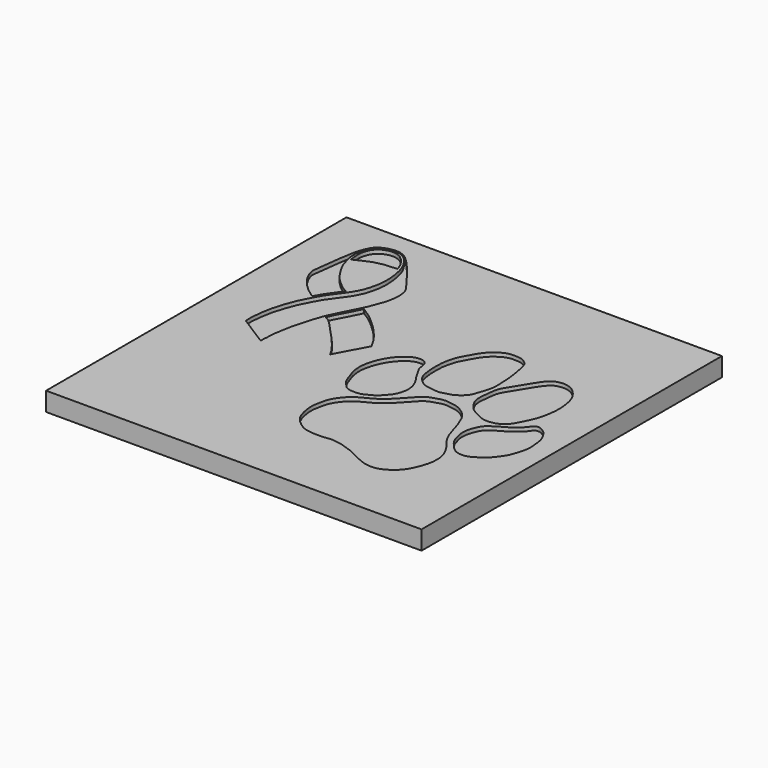
from build123d import *

# Parameters (mm, degrees)
F0_W     = 100
F0_H     = 100
F1_DEPTH = 5
F3_DEPTH = 1


with BuildPart() as f1:
    # F0 (on Top) → F1 (new body)
    with BuildSketch(Plane.XY):
        with Locations((-50, 50)):
            Rectangle(F0_W, F0_H)
    extrude(amount=F1_DEPTH)

    # F2 (on face) → F3 (cut)
    with BuildSketch(Plane.XY.offset(5)):
        with BuildLine():
            add(Edge.make_bspline(
                [(-64.0848875046, 49.6399775147), (-64.288202746, 50.0424058189), (-64.8090171446, 51.0727961272), (-67.1147871022, 54.1143364392), (-68.83718979, 56.0302063519), (-71.4616832735, 58.7464305372), (-72.6374264636, 60.2284947741), (-74.3689062362, 61.793973396), (-75.0556511216, 61.9965024044), (-75.2299129963, 62.1507614851)],
                knots=[0, 0, 0, 0, 0.1176836784, 0.2990488546, 0.4575531804, 0.636509527, 0.7713019313, 0.9120241927, 1, 1, 1, 1], degree=3))
            Line((-64.0848875046, 49.6399775147), (-59.6594251692, 57.8951723874))
            add(Edge.make_bspline(
                [(-59.6594251692, 57.8951723874), (-59.9626252199, 58.4657102763), (-60.5846521096, 59.6361913094), (-61.746220474, 61.4256740971), (-63.5726104746, 63.5311996747), (-65.1404835196, 65.2247917432), (-66.8969871058, 66.7402793734), (-68.4502400804, 68.1310458053), (-70.1136426095, 69.1990803312), (-70.9383979473, 69.7501798667), (-71.3183134794, 70.0040385127)],
                knots=[0, 0, 0, 0, 0.1199354675, 0.2460523527, 0.3894946815, 0.52134581, 0.6515644447, 0.7766793728, 0.8971295231, 1, 1, 1, 1], degree=3))
            add(Edge.make_bspline(
                [(-71.3183134794, 70.0040385127), (-71.4417016648, 69.7637669306), (-71.6963890239, 69.2678330685), (-72.0277679137, 68.493091419), (-72.6816687804, 67.2414086826), (-73.166343541, 66.3490114968), (-73.8320958845, 65.2286076489), (-74.2540779321, 64.3336739997), (-74.6416181853, 63.5701660273), (-74.9001398131, 62.8797298965), (-75.193946081, 62.3813359461), (-75.2299129963, 62.1507614851)],
                knots=[0, 0, 0, 0, 0.1016660796, 0.2066919806, 0.3398995931, 0.4565995666, 0.5846153322, 0.6982813709, 0.8016345081, 0.8999238885, 1, 1, 1, 1], degree=3))
        make_face()
        with BuildLine():
            add(Edge.make_bspline(
                [(-79.3000087142, 73.9591345191), (-79.5569602927, 74.0752122819), (-80.1629961698, 74.3489887232), (-81.5221057495, 75.3223688014), (-83.109994045, 76.6990341608), (-84.1613529467, 77.8855549616), (-85.0041285952, 78.9772772755), (-85.9471704352, 80.4919301114), (-87.1253716291, 82.5479201925), (-87.6404903777, 84.2971753356), (-88.2362387906, 86.3489722475), (-88.2697813701, 87.949675058), (-88.225194771, 89.6157102584), (-87.787677789, 91.0012098055), (-87.1425093313, 92.4294133108), (-86.2329252222, 93.1339702933), (-85.5549101754, 93.6803279952), (-84.460908514, 94.1398729739), (-83.5045294489, 94.3194142748), (-82.4291291484, 94.4028116464), (-81.2084023421, 94.1766828148), (-80.1330434124, 93.8064412186), (-79.1116800303, 93.0065916279), (-78.3176740513, 92.0920357947), (-77.5601125662, 90.9588449907), (-76.8681365483, 89.7626525674), (-76.3930390017, 88.2363522735), (-76.0520393382, 86.6801024831), (-75.8424896667, 85.4017955277), (-75.752418055, 84.2256725194), (-75.6761292573, 82.7969066708), (-75.7862696349, 81.2862724293), (-76.0467764292, 79.6740405539), (-76.4744864431, 78.1253759655), (-76.7753117689, 77.039119656), (-77.5863134586, 75.4311064717), (-78.2717975183, 74.2320626225), (-79.1017534493, 73.1133387174), (-80.1380318567, 71.7405900981), (-81.2061550767, 70.2982093029), (-82.329440217, 68.5386808876), (-83.2498451063, 66.690293716), (-84.1414520258, 65.046371669), (-85.0089616164, 63.0622697017), (-85.6354797313, 61.1979355287), (-86.2140621121, 59.407762268), (-86.6763447857, 57.6044271625), (-87.0161624371, 55.5170862658), (-87.2190889792, 53.8245118779), (-87.3183473626, 52.1954852453), (-87.2838721843, 51.038841895), (-87.2750657184, 50.6962650296), (-87.2716754675, 50.5643822253)],
                knots=[0, 0, 0, 0, 0.0154947193, 0.036544702, 0.0604335553, 0.0808786256, 0.0997022544, 0.1215333025, 0.1465229326, 0.1688070761, 0.1923308828, 0.2130749594, 0.2338190329, 0.2535884867, 0.2737921862, 0.2909487758, 0.3061443863, 0.3236555156, 0.3397983427, 0.3565961218, 0.3746668409, 0.3920336221, 0.4103510718, 0.4283295095, 0.4472336836, 0.4663733458, 0.486974691, 0.507627314, 0.5260609001, 0.5436635576, 0.5630551267, 0.5831431286, 0.6041350197, 0.6245475931, 0.6419940497, 0.6636340878, 0.6829448571, 0.7019981452, 0.7232836973, 0.745205049, 0.7687599323, 0.7921335708, 0.8144542512, 0.8383496947, 0.861291876, 0.8834818262, 0.905798487, 0.9294254254, 0.9508606132, 0.9718348438, 0.9891570223, 1, 1, 1, 1], degree=3))
            Line((-87.2716754675, 50.5643822253), (-79.2333781719, 45.4526506364))
            add(Edge.make_bspline(
                [(-83.4074392915, 67.7855536342), (-83.772210526, 68.0321576044), (-84.5858016188, 68.582186704), (-86.1992051033, 69.8510615449), (-88.0172171197, 71.725801015), (-89.0034724637, 73.0891837587), (-89.9496122499, 74.7252530669), (-90.4479236277, 76.341832556), (-90.4928043612, 77.1256819752), (-90.2804940876, 78.3446675993), (-90.1131734653, 80.1168864708), (-89.7902443549, 82.4715663085), (-89.4277441438, 85.4457026403), (-88.9600713882, 88.0946213626), (-88.5548063801, 89.907880867), (-87.6827062502, 91.9902774807), (-86.726892304, 93.3585650261), (-84.9905869606, 94.2483502151), (-83.4361280197, 94.6254807585), (-81.8622271012, 94.7234778718), (-80.5249394563, 94.3166485947), (-79.5024293027, 93.7671106122), (-78.4414982841, 92.8034856197), (-77.4679225511, 91.8292332306), (-76.1514253999, 90.3825935421), (-74.2899793995, 88.0351100772), (-73.0447565169, 86.3944061763), (-71.630161025, 84.5166038723), (-70.8129239726, 83.3851519707), (-69.8978925716, 82.2131213798), (-69.5894248875, 81.2118230465), (-69.2707937072, 79.7091282725), (-69.389777065, 77.3772164513), (-69.9598891937, 74.9886497861), (-70.8649468368, 72.6412558985), (-71.699118028, 70.5190056406), (-72.6703292264, 68.7649125338), (-73.9092692487, 66.2887895743), (-75.2028866364, 63.7726232295), (-76.0680853363, 61.7777959446), (-76.9235502292, 59.078710455), (-77.5659343809, 56.7585984497), (-78.3359959457, 53.9717859741), (-78.7340613705, 51.1817349437), (-79.1712528289, 48.8038057992), (-79.0501843071, 47.5807893748), (-79.2150447841, 46.7538159327), (-79.2331111028, 45.920348924), (-79.2333781719, 45.4526506364)],
                knots=[0, 0, 0, 0, 0.0184800608, 0.0412188476, 0.0666579701, 0.0871851189, 0.1089031086, 0.1291138984, 0.142844268, 0.159899257, 0.180917552, 0.2052933344, 0.2328447561, 0.2585700918, 0.2801419725, 0.3034879957, 0.3237698461, 0.345305411, 0.36535746, 0.3849658217, 0.4033413207, 0.4202599605, 0.4388838051, 0.4572403043, 0.4793407646, 0.5065493041, 0.52971722, 0.5534725431, 0.5724109454, 0.5911553708, 0.6070903582, 0.6263006689, 0.6503298185, 0.6751802125, 0.7002155083, 0.7238078609, 0.7460239843, 0.7722886498, 0.7987655531, 0.8221115762, 0.8483043406, 0.8729626865, 0.8995763303, 0.9264537879, 0.9508359706, 0.9678121121, 0.981980517, 1, 1, 1, 1], degree=3))
            add(Edge.make_bspline(
                [(-79.3000087142, 73.9591345191), (-79.4821359105, 73.6903847325), (-79.7844895396, 73.2442269104), (-80.029452156, 72.9394006154), (-80.4064539267, 72.4541582032), (-80.9583613619, 71.5823597499), (-81.7344236254, 70.5701694468), (-82.4071596577, 69.4860191443), (-82.8395479621, 68.7461301436), (-83.1421174311, 68.2772342597), (-83.3188268365, 67.9497656113), (-83.4074392915, 67.7855536342)],
                knots=[0, 0, 0, 0, 0.1165765226, 0.1935314185, 0.2885408387, 0.4155186801, 0.5584915839, 0.7003817762, 0.8150704372, 0.9072654763, 1, 1, 1, 1], degree=3))
        make_face()
        with BuildLine():
            add(Edge.make_bspline(
                [(-87.4013081193, 85.7417210937), (-87.4405006375, 85.9991028846), (-87.5294075145, 86.5829646087), (-87.6685664464, 87.9174548238), (-87.6322172787, 89.4858663001), (-87.1803671874, 90.9678648157), (-86.6285487283, 91.9604431152), (-85.9684076935, 92.6218369612), (-85.2411557354, 93.2063288983), (-84.2307891653, 93.5601324349), (-83.2428838782, 93.8399335752), (-82.0115897613, 93.7824928162), (-81.1275206874, 93.5301016862), (-80.3513295298, 93.1926999975), (-79.7514382188, 92.638620539), (-79.0569031004, 92.0509354806), (-78.4619171388, 91.2002426487), (-77.9450051312, 90.456876487), (-77.5576497624, 89.6144501794), (-77.3757355352, 89.0664309654), (-77.2444779122, 88.6729510005), (-77.177837491, 88.4731784463)],
                knots=[0, 0, 0, 0, 0.0481670965, 0.1092653986, 0.1762689135, 0.2420462051, 0.2980262981, 0.3485559044, 0.3993615421, 0.4536280254, 0.5076497274, 0.5658923934, 0.6168792894, 0.6648310157, 0.7123146876, 0.7628444355, 0.8165791506, 0.8676562297, 0.9180929368, 0.9584152062, 1, 1, 1, 1], degree=3))
            add(Edge.make_bspline(
                [(-87.4013081193, 85.7417210937), (-87.2169521712, 85.8438660497), (-86.8028541985, 86.0733027435), (-85.8699172317, 86.4911512288), (-84.7087364059, 86.9868101042), (-83.8177572185, 87.386041465), (-82.837814856, 87.7719946643), (-81.6343647844, 87.9788216425), (-80.5808998908, 88.291034516), (-79.7527936815, 88.2430018425), (-78.6727263816, 88.4243156368), (-77.7424744685, 88.4226369921), (-77.3485149466, 88.4579008659), (-77.177837491, 88.4731784463)],
                knots=[0, 0, 0, 0, 0.0755455952, 0.1696895496, 0.2744574022, 0.3662157038, 0.4606622623, 0.5639536239, 0.6603138663, 0.7443258013, 0.8415561395, 0.9313564124, 1, 1, 1, 1], degree=3))
        make_face()
        with BuildLine():
            add(Edge.make_bspline(
                [(-50.2851679921, 39.624132216), (-50.8611362779, 39.660135181), (-51.7727193422, 39.8008030879), (-52.7151405574, 40.8827829282), (-53.8217971524, 41.8646622327), (-54.6064177534, 43.8264095481), (-55.1464739723, 45.3544969386), (-55.6451478137, 46.9100615212), (-55.8873494385, 49.0267523838), (-55.6383809316, 51.1010581852), (-55.0730452006, 53.1072596257), (-54.2997768487, 54.8719590247), (-53.200852602, 56.6781927092), (-51.7889773589, 58.1912558604), (-50.0545892335, 59.4888662279), (-48.6472578253, 59.7338865101), (-47.7642067326, 59.762370228), (-46.6848252295, 59.4636588597), (-46.1417784266, 58.7342939405), (-45.8270318573, 57.6113924101), (-45.7414930099, 56.35508974), (-45.0726995921, 55.3043104294), (-44.3418780357, 53.8261160503), (-43.5560915062, 52.6381374643), (-42.4906540125, 51.1294187536), (-41.7101468551, 49.2573000541), (-41.4894361355, 47.5727743321), (-41.7412664165, 45.8964504157), (-42.3294883938, 44.0721897412), (-43.6829416863, 42.6053982009), (-44.8713470803, 41.1824870318), (-46.7852922212, 40.2959959126), (-48.0112936537, 39.5983079807), (-49.5795328857, 39.5800239609), (-50.2851679921, 39.624132216)],
                knots=[0, 0, 0, 0, 0.0295189118, 0.0575627998, 0.0872053365, 0.1222352858, 0.1533950206, 0.184232585, 0.2195565076, 0.2548804302, 0.2898107207, 0.3235838356, 0.3586879455, 0.3940118763, 0.4296226506, 0.4580455672, 0.4809037155, 0.5057955126, 0.5283809558, 0.5544937012, 0.5815160417, 0.6085384077, 0.6395918703, 0.6687733799, 0.7017431234, 0.7363948843, 0.767832841, 0.7992708324, 0.8326781536, 0.8667786466, 0.9000709519, 0.934697026, 0.9638355428, 1, 1, 1, 1], degree=3))
        make_face()
        with BuildLine():
            add(Edge.make_bspline(
                [(-37.3721569777, 50.6608970463), (-36.7652131943, 50.5792819541), (-35.8400669193, 50.4269009179), (-34.5067730754, 50.9365267673), (-32.7808185404, 51.2092126841), (-31.3945762052, 52.1804329538), (-29.9363789953, 53.4461460296), (-29.3181170835, 55.3182874774), (-28.6075066295, 57.2759980883), (-28.1110284734, 59.4711465203), (-28.2159017964, 61.7373753369), (-28.2949584774, 63.7728684857), (-28.6073073944, 66.9519300836), (-29.0701142222, 68.9663107962), (-29.622851365, 71.4795021957), (-30.3818604326, 72.1914046809), (-31.7209788467, 73.110451618), (-33.2919728839, 73.168100865), (-34.7276796731, 73.2669398559), (-36.3032162572, 72.7978934538), (-37.6026987454, 71.9857897203), (-38.7280358064, 71.1090217858), (-39.7211754122, 69.9938917203), (-40.6148465517, 68.6528488325), (-41.3141218884, 67.1923013729), (-42.4291957139, 65.4698114191), (-43.0352148542, 63.5670378947), (-43.5216933308, 61.3748678594), (-43.5801166094, 58.8274453573), (-43.4812357625, 56.7632751594), (-43.1716549243, 54.7325511935), (-42.5857029455, 53.1361213362), (-41.1162003371, 51.8275187829), (-39.87782215, 50.9567203142), (-38.138236287, 50.7639109253), (-37.3721569777, 50.6608970463)],
                knots=[0, 0, 0, 0, 0.0277250896, 0.0537523733, 0.0829105449, 0.1118236529, 0.1423099184, 0.1732364456, 0.2054717217, 0.2388934892, 0.2719891513, 0.3042691453, 0.3435403451, 0.37696211, 0.4115469258, 0.434017317, 0.4616005557, 0.4894305699, 0.5161131525, 0.5443515334, 0.5719347721, 0.5984177459, 0.6255619272, 0.6536661238, 0.6821022527, 0.7138098702, 0.7452313589, 0.7786531021, 0.814161011, 0.8464409757, 0.878054086, 0.9069361329, 0.9374223877, 0.9650056264, 1, 1, 1, 1], degree=3))
        make_face()
        with BuildLine():
            add(Edge.make_bspline(
                [(-24.5695058256, 48.4535433352), (-24.9383619866, 48.6867733573), (-25.6169971307, 49.1659404518), (-26.7115323141, 50.6685664407), (-27.5671641085, 52.1674294058), (-27.7404402372, 54.2379194682), (-27.417069501, 56.5119460563), (-27.1836137239, 59.1313684155), (-25.7934832031, 61.3791211708), (-24.1784655754, 63.8094603755), (-22.9030295155, 66.1860453411), (-20.9664761685, 68.9180773143), (-19.3211353014, 69.6218597429), (-17.1353697932, 69.8192293821), (-15.1087070174, 68.9788866201), (-13.6965327221, 67.5747276316), (-12.3805724559, 65.6944180118), (-11.668003427, 62.8756756388), (-11.4145760147, 59.5010502039), (-11.925262563, 56.0629941555), (-12.660830483, 53.3972782943), (-14.0788957947, 50.6746706112), (-15.4298991995, 48.0645378978), (-17.7709323149, 46.7189236286), (-20.7381506024, 46.4357252779), (-22.9884328638, 47.5240133177), (-24.1308590845, 48.1761842994), (-24.5695058256, 48.4535433352)],
                knots=[0, 0, 0, 0, 0.0288008947, 0.0633437762, 0.0970889551, 0.13338748, 0.1725625903, 0.213774201, 0.2553034734, 0.29885946, 0.3419764443, 0.3880718616, 0.4218170404, 0.459021722, 0.4965058573, 0.532382034, 0.5707630358, 0.6142226286, 0.6617618555, 0.7094481884, 0.7520953684, 0.7970114656, 0.8405674246, 0.8817600982, 0.9253160632, 0.9657497423, 1, 1, 1, 1], degree=3))
        make_face()
        with BuildLine():
            add(Edge.make_bspline(
                [(-19.7133291513, 43.0455282331), (-19.9465047097, 42.5391278185), (-20.4875719749, 41.2737740859), (-20.7413552176, 38.9623515519), (-20.1671156298, 36.851022338), (-19.6120660799, 35.1494131387), (-17.9840052044, 33.1956279782), (-16.5006686675, 31.7796522305), (-14.8574908539, 31.3565330582), (-12.9089866341, 31.531997936), (-11.0907872298, 32.6680988478), (-9.3714610202, 33.8110342233), (-8.0066459696, 35.5039314539), (-6.7194773052, 37.3647377175), (-6.2686932501, 38.8547109465), (-5.6264125766, 40.5092229685), (-5.2738075013, 42.6310655691), (-5.4594138957, 44.8004112956), (-5.7660762194, 47.2628428241), (-6.7700160702, 49.0103840647), (-7.669628222, 50.2715747976), (-9.1282862965, 51.0939171315), (-9.8699134576, 51.2017107806), (-10.7020340485, 51.0823887541), (-11.3876352512, 50.0255284498), (-11.9822748542, 49.3223825141), (-12.6406070937, 48.6392034641), (-13.8955641164, 47.6569161602), (-15.1750913604, 46.8249394019), (-16.3883548441, 46.1998028629), (-17.4320419032, 45.5408644176), (-18.4289085141, 44.8243818209), (-19.2004302184, 44.1076778041), (-19.5286699055, 43.4465630554), (-19.7133291513, 43.0455282331)],
                knots=[0, 0, 0, 0, 0.0335316, 0.0707878045, 0.1065310831, 0.1391349364, 0.1778704549, 0.2127024643, 0.243654755, 0.2772150392, 0.3127912242, 0.3477758816, 0.3839154418, 0.4204164348, 0.4506897076, 0.4829444681, 0.5185206298, 0.5548196509, 0.5931772358, 0.6274853188, 0.6580659421, 0.6889230384, 0.7098376667, 0.7309583607, 0.7578175089, 0.7813984076, 0.8049207353, 0.8356956447, 0.8662449029, 0.8946282824, 0.9217979899, 0.9487748572, 0.9734452444, 1, 1, 1, 1], degree=3))
        make_face()
        with BuildLine():
            add(Edge.make_bspline(
                [(-37.8382839262, 19.6879636496), (-37.377252128, 19.6067666507), (-36.6582518498, 19.487207853), (-35.182398017, 18.8760310248), (-33.6511313207, 18.483496284), (-32.1325886366, 17.6284240486), (-30.7950857093, 16.9605102709), (-29.2207693566, 16.2640611322), (-27.8142532028, 15.7027509154), (-25.5598233504, 15.3806524647), (-23.5028932693, 15.8509370503), (-21.8091972826, 16.8336517305), (-20.025691079, 18.2791436705), (-18.7915595225, 20.1417829087), (-17.6957405416, 22.8439004618), (-17.1738408076, 24.8355390604), (-17.0194903127, 27.4667016218), (-17.6659722703, 29.7548109669), (-18.7907257146, 31.7840323805), (-20.1329827456, 33.4658715269), (-21.1089694598, 34.7137480976), (-21.9812073652, 36.3881826641), (-22.6253726769, 38.2174854213), (-23.2650800592, 40.5629999913), (-23.858181775, 42.2207089039), (-24.6856897175, 44.2472723643), (-25.7391815753, 45.881534863), (-27.5039153323, 47.2470362591), (-29.1972388332, 48.0189515091), (-31.0309846512, 48.2933747535), (-32.6646067214, 48.4804991264), (-34.5309464106, 47.9518811203), (-36.5277226766, 47.3103979058), (-37.8608831688, 46.0903380405), (-38.8409745656, 44.965391837), (-40.0677090584, 43.6858007648), (-41.0690728779, 42.5520983428), (-42.4090466367, 41.2694278679), (-44.3760426967, 39.7827794445), (-46.0021852538, 39.0176179261), (-48.2588252575, 37.898449482), (-50.1438929029, 36.0438568434), (-51.670620348, 33.6896736351), (-52.0349986059, 31.8840722061), (-52.5950512725, 29.4667388068), (-52.4283205553, 27.432576165), (-52.0301327016, 25.3708547405), (-51.171280422, 23.1627007413), (-49.5288002955, 21.6249952908), (-47.8612620829, 20.3466090461), (-45.908911101, 19.7784215786), (-43.8295549809, 19.6585019601), (-41.3882923506, 19.7055451064), (-39.9403363091, 20.06867798), (-38.4374970809, 19.7934971727), (-37.8382839262, 19.6879636496)],
                knots=[0, 0, 0, 0, 0.0147329499, 0.0312648328, 0.0482248776, 0.065691748, 0.0821596813, 0.0994402973, 0.1159721708, 0.1358914701, 0.1551698269, 0.1737718768, 0.1937201917, 0.2138117197, 0.2363863652, 0.2557523361, 0.277084381, 0.2976478452, 0.3179896856, 0.3374576953, 0.3542503843, 0.3722920626, 0.3911305698, 0.4117924238, 0.429715528, 0.4492145994, 0.4678964657, 0.4876015103, 0.5058357488, 0.5238381546, 0.5408217005, 0.5593156992, 0.5786658235, 0.59634446, 0.6127215823, 0.6303584606, 0.6467355829, 0.6649698214, 0.685792648, 0.703834322, 0.724676205, 0.7466423427, 0.7686355375, 0.7868317566, 0.8075970653, 0.8266800085, 0.8459583688, 0.866307036, 0.8862263293, 0.9054644733, 0.924172724, 0.9436717893, 0.9642813634, 0.9808512614, 1, 1, 1, 1], degree=3))
        make_face()
    extrude(amount=-F3_DEPTH, mode=Mode.SUBTRACT)


solid = f1.part
